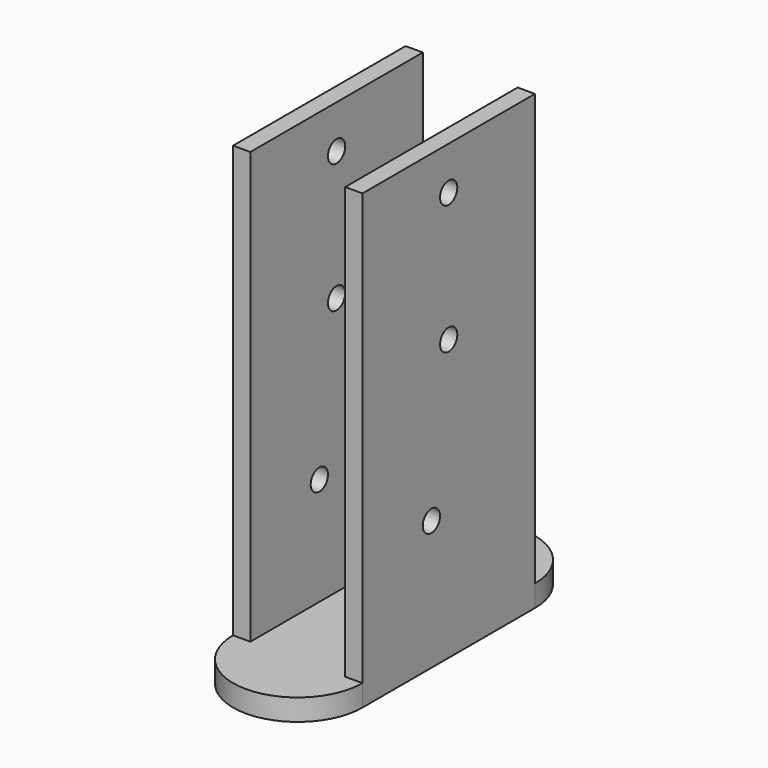
from build123d import *

# Parameters (mm, degrees)
F1_DEPTH = 6.35
F2_W     = 5.08
F2_H     = 63.5
F3_DEPTH = 127
F4_R     = 3.175
F5_DEPTH = 50.8


with BuildPart() as f1:
    # F0 (on Top) → F1 (new body)
    with BuildSketch(Plane.XY):
        with BuildLine():
            ThreePointArc((38.1, 0), (19.05, -19.05), (0, 0))
            Line((0, 0), (0, -63.5))
            ThreePointArc((0, -63.5), (19.05, -44.45), (38.1, -63.5))
            Line((38.1, -63.5), (38.1, 0))
        make_face()
        with BuildLine():
            ThreePointArc((38.1, 0), (19.05, 19.05), (0, 0))
            ThreePointArc((0, 0), (19.05, -19.05), (38.1, 0))
        make_face()
        with BuildLine():
            ThreePointArc((38.1, -63.5), (19.05, -44.45), (0, -63.5))
            ThreePointArc((0, -63.5), (19.05, -82.55), (38.1, -63.5))
        make_face()
    extrude(amount=F1_DEPTH)

    # F2 (on face) → F3 (join)
    with BuildSketch(Plane.XY.offset(6.35)):
        with Locations((2.54, -31.75)):
            Rectangle(F2_W, F2_H)
        with Locations((35.56, -31.75)):
            Rectangle(F2_W, F2_H)
    extrude(amount=F3_DEPTH)

    # F4 (on face) → F5 (cut)
    with BuildSketch(Plane.YZ.offset(38.1)):
        with Locations((-31.75, 120.65)):
            Circle(F4_R)
        with Locations((-31.75, 82.55)):
            Circle(F4_R)
        with Locations((-38.1, 38.1)):
            Circle(F4_R)
    extrude(amount=-F5_DEPTH, mode=Mode.SUBTRACT)


solid = f1.part
